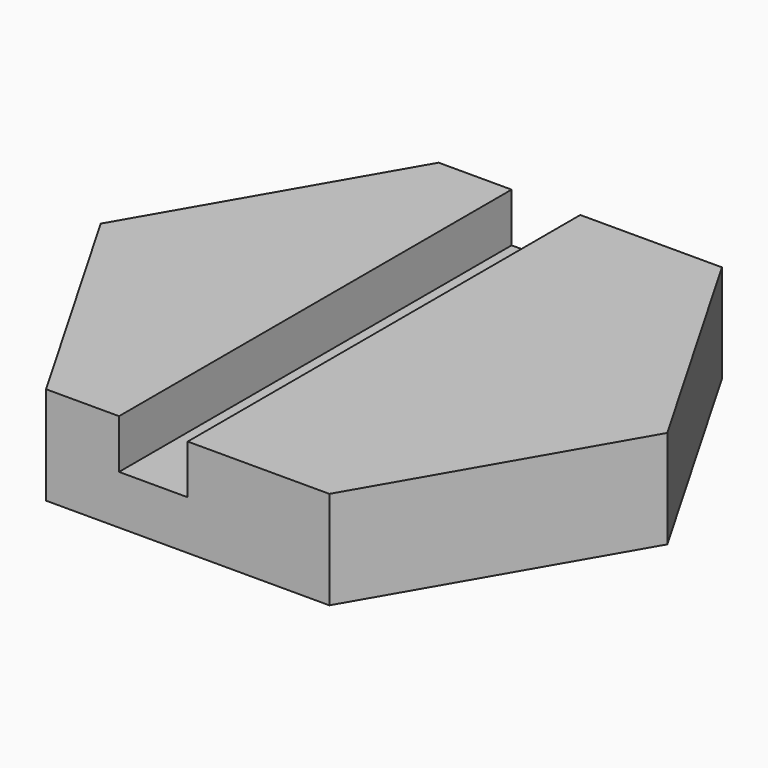
from build123d import *

# Parameters (mm, degrees)
SKETCH001_W           = 7
SKETCH001_H           = 60
EXTRUDE001_DEPTH      = 1
EXTRUDE001_DEPTH_BACK = 5
EXTRUDE_DEPTH         = 10


with BuildPart() as extrude001:
    # Sketch001 (on Face8 of Extrude) → Extrude001 (new body, two sides)
    with BuildSketch(Plane.XY.offset(10)) as extrude001_sk:
        with Locations((-3.5, 0)):
            Rectangle(SKETCH001_W, SKETCH001_H)
    extrude(amount=EXTRUDE001_DEPTH)
    extrude(extrude001_sk.sketch, amount=-EXTRUDE001_DEPTH_BACK)


with BuildPart() as cut:
    # Sketch → Extrude (new body)
    with BuildSketch(Plane.XY):
        Polygon((28.867513, 0), (14.433757, 25), (-14.433757, 25), (-28.867513, 0), (-14.433757, -25), (14.433757, -25), align=None)
    extrude(amount=EXTRUDE_DEPTH)

    # Cut: cut Extrude001
    add(extrude001.part, mode=Mode.SUBTRACT)


solid = cut.part
